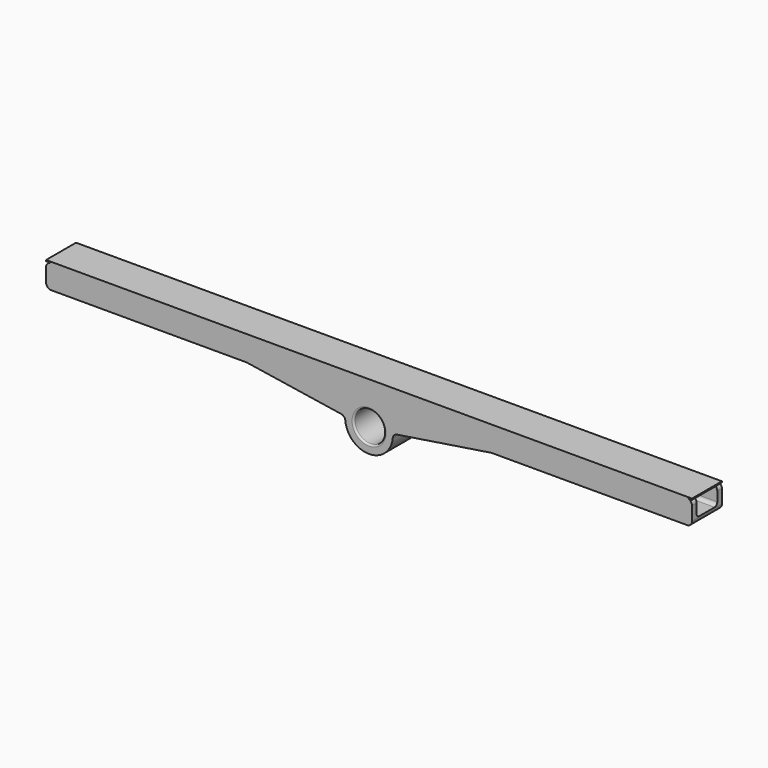
from build123d import *

# Parameters (mm, degrees)
F1_W     = 380
F1_H     = 14
F2_DEPTH = 11
F4_DEPTH = 380.001
F5_R     = 9
F6_DEPTH = 22
F8_R     = 3
F7_W     = 380
F7_H     = 22
F9_DEPTH = 0.7
F10_R    = 1


with BuildPart() as f2:
    # F1 (on Front) → F2 (new body, symmetric)
    with BuildSketch(Plane.XZ):
        with Locations((0, 7)):
            Rectangle(F1_W, F1_H)
    extrude(amount=F2_DEPTH, both=True)

    # F3 (on face) → F4 (cut, through all)
    with BuildSketch(Plane(origin=(-190, 0, 0), x_dir=(0, -1, 0), z_dir=(-1, 0, 0))):
        with BuildLine():
            Line((7.6, 14), (-7.6, 14))
            Line((-7.6, 14), (-7.6, 5.4))
            ThreePointArc((-7.6, 5.4), (-7.0142135624, 3.9857864376), (-5.6, 3.4))
            Line((-5.6, 3.4), (5.6, 3.4))
            ThreePointArc((5.6, 3.4), (7.0142135624, 3.9857864376), (7.6, 5.4))
            Line((7.6, 5.4), (7.6, 14))
        make_face()
    extrude(amount=-F4_DEPTH, mode=Mode.SUBTRACT)

    # F5 (on face) → F6 (join, through all)
    with BuildSketch(Plane(origin=(0, 11, 0), x_dir=(-1, 0, 0), z_dir=(0, 1, 0))):
        with BuildLine():
            Line((-9.7979589711, 0), (-72, 0))
            Line((-72, 0), (-13.9642400438, -9))
            ThreePointArc((-13.9642400438, -9), (-12.7047442125, -4.118718295), (-9.7979589711, 0))
        make_face()
        with BuildLine():
            ThreePointArc((-9.7979589711, 0), (-12.7047442125, -4.118718295), (-13.9642400438, -9))
            ThreePointArc((-13.9642400438, -9), (-0.5003195915, -23.9910571547), (14, -10))
            ThreePointArc((14, -10), (13.9910571547, -9.4996804085), (13.9642400438, -9))
            ThreePointArc((13.9642400438, -9), (12.7047442125, -4.118718295), (9.7979589711, 0))
            Line((9.7979589711, 0), (-9.7979589711, 0))
        make_face()
        with Locations((0, -10)):
            Circle(F5_R, mode=Mode.SUBTRACT)
        with BuildLine():
            Line((72, 0), (9.7979589711, 0))
            ThreePointArc((9.7979589711, 0), (12.7047442125, -4.118718295), (13.9642400438, -9))
            Line((13.9642400438, -9), (72, 0))
        make_face()
    extrude(amount=-F6_DEPTH)

    # F8
    f8_edges = [f2.edges().sort_by_distance(p)[0] for p in [
        (190, -9.3, 14),
        (190, 9.3, 14),
        (190, 0, 0),
        (-190, -9.3, 14),
        (-190, 9.3, 14),
        (-190, 0, 0),
        (13.96424, 0, -9),
        (-13.96424, 0, -9),
    ]]
    fillet(f8_edges, radius=F8_R)

    # F7 (on face) → F9 (join)
    with BuildSketch(Plane.XY.offset(14)):
        Rectangle(F7_W, F7_H)
    extrude(amount=F9_DEPTH)

    # F10
    f10_edges = [f2.edges().sort_by_distance(p)[0] for p in [
        (-9, 0, -10),
        (9, 11, -10),
        (9, -11, -10),
    ]]
    fillet(f10_edges, radius=F10_R)


solid = f2.part
